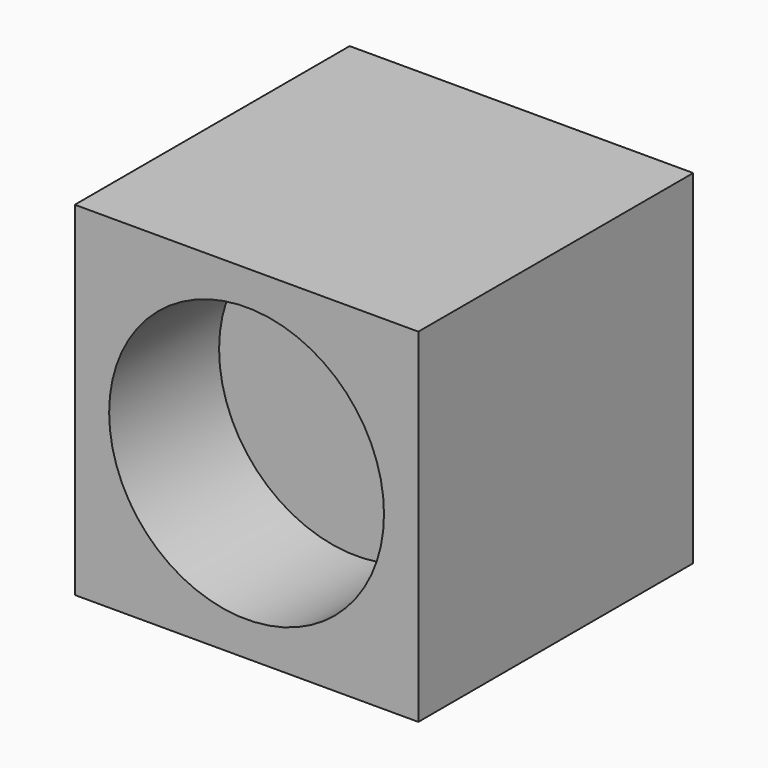
from build123d import *

# Parameters (mm, degrees)
F0_W     = 127
F0_H     = 127
F0_R     = 50.8
F1_DEPTH = 63.5
F2_DEPTH = 12.7


with BuildPart() as f1:
    # F0 (on Front) → F1 (new body, symmetric)
    with BuildSketch(Plane.XZ):
        Rectangle(F0_W, F0_H)
        Circle(F0_R, mode=Mode.SUBTRACT)
    extrude(amount=F1_DEPTH, both=True)

    # F0 (on Front) → F2 (join, symmetric)
    with BuildSketch(Plane.XZ):
        Circle(F0_R)
    extrude(amount=F2_DEPTH, both=True)


solid = f1.part
